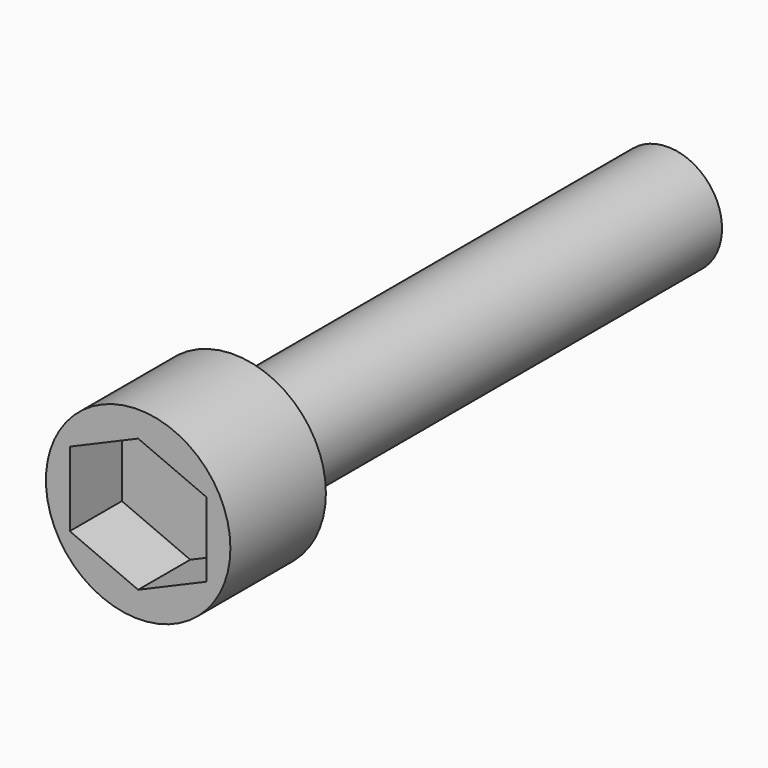
from build123d import *

# Parameters (mm, degrees)
F0_R     = 4.25
F1_DEPTH = 5.5
F3_DEPTH = 3
F4_R     = 2.5
F5_DEPTH = 25


with BuildPart() as f1:
    # F0 (on Front) → F1 (new body)
    with BuildSketch(Plane.XZ):
        Circle(F0_R)
    extrude(amount=F1_DEPTH)

    # F2 (on face) → F3 (cut)
    with BuildSketch(Plane.XZ.offset(5.5)):
        Polygon((3.151009, 1.714376), (0, 3.066219), (0, 0), (3.151009, 0), align=None)
        Polygon((0, 0), (0, 3.066219), (-3.151009, 1.714376), (-3.151009, 0), align=None)
        Polygon((3.151009, 0), (0, 0), (0, -3.066219), (3.151009, -1.714376), align=None)
        Polygon((0, -3.066219), (0, 0), (-3.151009, 0), (-3.151009, -1.714376), align=None)
    extrude(amount=-F3_DEPTH, mode=Mode.SUBTRACT)

    # F4 (on face) → F5 (join)
    with BuildSketch(Plane(origin=(0, 0, 0), x_dir=(-1, 0, 0), z_dir=(0, 1, 0))):
        Circle(F4_R)
    extrude(amount=F5_DEPTH)


solid = f1.part
